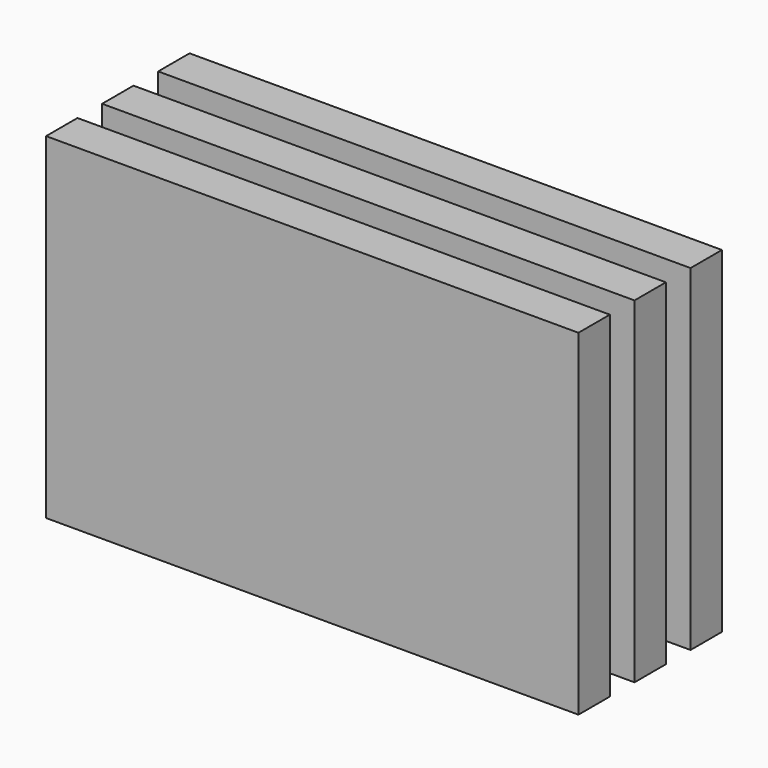
from build123d import *

# Parameters (mm, degrees)
BOX170_W     = 190
BOX170_H     = 14
BOX170_DEPTH = 120
BOX090_W     = 190
BOX090_H     = 14
BOX090_DEPTH = 120
BOX171_W     = 190
BOX171_H     = 14
BOX171_DEPTH = 120


with BuildPart() as obj1:
    # Box170 → Box170 (new body)
    with BuildSketch(Plane(origin=(-6, -188, 54), x_dir=(1, 0, 0), z_dir=(0, 0, 1))):
        with Locations((95, 7)):
            Rectangle(BOX170_W, BOX170_H)
    extrude(amount=BOX170_DEPTH)


with BuildPart() as obj2:
    # Box090 → Box090 (new body)
    with BuildSketch(Plane(origin=(-6, -163, 54), x_dir=(1, 0, 0), z_dir=(0, 0, 1))):
        with Locations((95, 7)):
            Rectangle(BOX090_W, BOX090_H)
    extrude(amount=BOX090_DEPTH)


with BuildPart() as fusion058:
    # Box171 → Box171 (new body)
    with BuildSketch(Plane(origin=(-6, -213, 54), x_dir=(1, 0, 0), z_dir=(0, 0, 1))):
        with Locations((95, 7)):
            Rectangle(BOX171_W, BOX171_H)
    extrude(amount=BOX171_DEPTH)

    # Fusion058: union obj1, obj2
    add(obj1.part)
    add(obj2.part)


with BuildPart() as fusion058_1:
    # Fusion058 placement: moved
    add(fusion058.part.moved(Location((0, 7, 0))))


solid = fusion058_1.part
